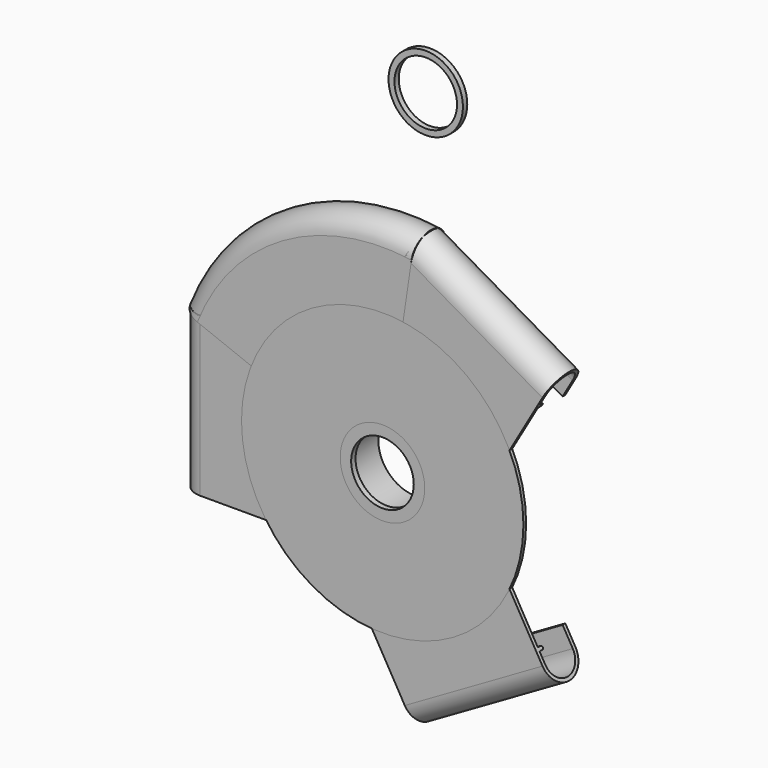
from build123d import *

# Parameters (mm, degrees)
F0_R      = 12.5
F0_R_2    = 11
F1_DEPTH  = 12.2
F3_DEPTH  = 23.5
F7_DEPTH  = 23.5
F11_DEPTH = 23.5
F13_R     = 11
F14_DEPTH = 25
F0_R_3    = 9.25
F15_DEPTH = 1.6
F20_ANGLE = 77
F13_R_2   = 9.25
F22_DEPTH = 1.6
F0_R_4    = 41.6752373002
F0_R_5    = 20.5615525182
F23_DEPTH = 1


with BuildPart() as f1:
    # F0 (on Front) → F1 (new body)
    with BuildSketch(Plane.XZ):
        Circle(F0_R)
        Circle(F0_R_2, mode=Mode.SUBTRACT)
    extrude(amount=-F1_DEPTH)

    # F13 (on offset) → F14 (cut)
    with BuildSketch(Plane.XZ.offset(-12.2)):
        Circle(F13_R)
    extrude(amount=F14_DEPTH, mode=Mode.SUBTRACT)

    # F0 (on Front) → F15 (join)
    with BuildSketch(Plane.XZ):
        Circle(F0_R_2)
        Circle(F0_R_3, mode=Mode.SUBTRACT)
    extrude(amount=-F15_DEPTH)


with BuildPart() as f3:
    # F2 (on Top) → F3 (new body, symmetric)
    with BuildSketch(Plane.XY):
        with BuildLine():
            ThreePointArc((-53.9000045358, 1), (-59.0000045358, 6.1), (-53.9000045358, 11.2))
            Line((-53.9000045358, 11.2), (-47.9000045358, 11.2))
            Line((-47.9000045358, 11.2), (-47.9000045358, 12.2))
            Line((-47.9000045358, 12.2), (-53.9000045358, 12.2))
            ThreePointArc((-53.9000045358, 12.2), (-60.0000045358, 6.1), (-53.9000045358, 0))
            Line((-53.9000045358, 0), (-49.58, 0))
            Line((-49.58, 0), (-12.5, 0))
            Line((-12.5, 0), (-12.5, 1))
            Line((-12.5, 1), (-49.58, 1))
            Line((-49.58, 1), (-49.58, 2))
            ThreePointArc((-49.58, 2), (-50.08, 2.5), (-50.58, 2))
            Line((-50.58, 2), (-50.58, 1))
            Line((-50.58, 1), (-53.9000045358, 1))
        make_face()
    extrude(amount=F3_DEPTH, both=True)


with BuildPart() as f7:
    # F6 (on line) → F7 (new body, symmetric)
    with BuildSketch(Plane(origin=(0, 0, 0), x_dir=(0, -1, 0), z_dir=(-0.8660254038, 0, -0.5))):
        with BuildLine():
            ThreePointArc((-1, -53.9000045358), (-6.1, -59.0000045358), (-11.2, -53.9000045358))
            Line((-11.2, -53.9000045358), (-11.2, -47.9000045358))
            Line((-11.2, -47.9000045358), (-12.2, -47.9000045358))
            Line((-12.2, -47.9000045358), (-12.2, -53.9000045358))
            ThreePointArc((-12.2, -53.9000045358), (-6.1, -60.0000045358), (0, -53.9000045358))
            Line((0, -53.9000045358), (0, -49.58))
            Line((0, -49.58), (0, -12.5049466592))
            Line((0, -12.5049466592), (-1, -12.5049466592))
            Line((-1, -12.5049466592), (-1, -49.58))
            Line((-1, -49.58), (-2, -49.58))
            ThreePointArc((-2, -49.58), (-2.5, -50.08), (-2, -50.58))
            Line((-2, -50.58), (-1, -50.58))
            Line((-1, -50.58), (-1, -53.9000045358))
        make_face()
    extrude(amount=F7_DEPTH, both=True)


with BuildPart() as f11:
    # F10 (on line) → F11 (new body, symmetric)
    with BuildSketch(Plane(origin=(0, 0, 0), x_dir=(0, 1, 0), z_dir=(0.8660254038, 0, -0.5))):
        with BuildLine():
            ThreePointArc((1, 53.845282644), (6.1, 58.945282644), (11.2, 53.845282644))
            Line((11.2, 53.845282644), (11.2, 47.845282644))
            Line((11.2, 47.845282644), (12.2, 47.845282644))
            Line((12.2, 47.845282644), (12.2, 53.845282644))
            ThreePointArc((12.2, 53.845282644), (6.1, 59.945282644), (0, 53.845282644))
            Line((0, 53.845282644), (0, 49.5252781083))
            Line((0, 49.5252781083), (0, 12.5))
            Line((0, 12.5), (1, 12.5))
            Line((1, 12.5), (1, 49.5252781083))
            Line((1, 49.5252781083), (2, 49.5252781083))
            ThreePointArc((2, 49.5252781083), (2.5, 50.0252781083), (2, 50.5252781083))
            Line((2, 50.5252781083), (1, 50.5252781083))
            Line((1, 50.5252781083), (1, 53.845282644))
        make_face()
    extrude(amount=F11_DEPTH, both=True)


with BuildPart() as f20:
    # F19 (on face) → F20 (revolve)
    with BuildSketch(Plane(origin=(0, 0, 0), x_dir=(0.9311282508, 0, -0.3646918982), z_dir=(-0.3646918982, 0, -0.9311282508))):
        with BuildLine():
            Line((-20.2093627427, 0), (-58.7580765478, 0))
            add(Edge.make_bspline(
                [(-58.7580765478, 0), (-64.4379588775, 0), (-64.4379588775, -6.1), (-64.4379588775, -12.2), (-58.7580765478, -12.2)],
                knots=[0, 0, 0, 1.5707963268, 1.5707963268, 3.1415926536, 3.1415926536, 3.1415926536], degree=2, weights=[1, 0.7071067812, 1, 0.7071067812, 1]))
            Line((-58.7580765478, -12.2), (-53.1713070432, -12.2))
            Line((-53.1713070432, -12.2), (-53.1713070432, -11.2))
            Line((-53.1713070432, -11.2), (-58.7580765478, -11.2))
            add(Edge.make_bspline(
                [(-58.7580765478, -1), (-63.5068306267, -1), (-63.5068306267, -6.1), (-63.5068306267, -11.2), (-58.7580765478, -11.2)],
                knots=[3.1415926536, 3.1415926536, 3.1415926536, 4.7123889804, 4.7123889804, 6.2831853072, 6.2831853072, 6.2831853072], degree=2, weights=[1, 0.7071067812, 1, 0.7071067812, 1]))
            Line((-58.7580765478, -1), (-55.6667265319, -1))
            Line((-55.6667265319, -1), (-55.6667265319, -2))
            add(Edge.make_bspline(
                [(-55.6667265319, -2), (-55.6667265319, -2.5), (-55.2011624065, -2.5), (-54.7355982811, -2.5), (-54.7355982811, -2)],
                knots=[1.5707963268, 1.5707963268, 1.5707963268, 3.1415926536, 3.1415926536, 4.7123889804, 4.7123889804, 4.7123889804], degree=2, weights=[1, 0.7071067812, 1, 0.7071067812, 1]))
            Line((-54.7355982811, -2), (-54.7355982811, -1))
            Line((-54.7355982811, -1), (-20.2093627427, -1))
            Line((-20.2093627427, -1), (-20.2093627427, 0))
        make_face()
    revolve(axis=Axis((0, -18.8117902726, 0), (0, 1, 0)), revolution_arc=F20_ANGLE)


with BuildPart() as f22:
    # F13 (on offset) → F22 (new body)
    with BuildSketch(Plane.XZ.offset(-12.2)):
        with Locations((4.3065343052, 95.9274619818)):
            Circle(F13_R)
        with Locations((4.3065343052, 95.9274619818)):
            Circle(F13_R_2, mode=Mode.SUBTRACT)
    extrude(amount=F22_DEPTH)


with BuildPart() as f23:
    # F0 (on Front) → F23 (new body)
    with BuildSketch(Plane.XZ):
        Circle(F0_R_4)
        Circle(F0_R_5, mode=Mode.SUBTRACT)
        Circle(F0_R_5)
        Circle(F0_R, mode=Mode.SUBTRACT)
    extrude(amount=-F23_DEPTH)


solid = Compound([f1.part, f3.part, f7.part, f11.part, f20.part, f22.part, f23.part])
